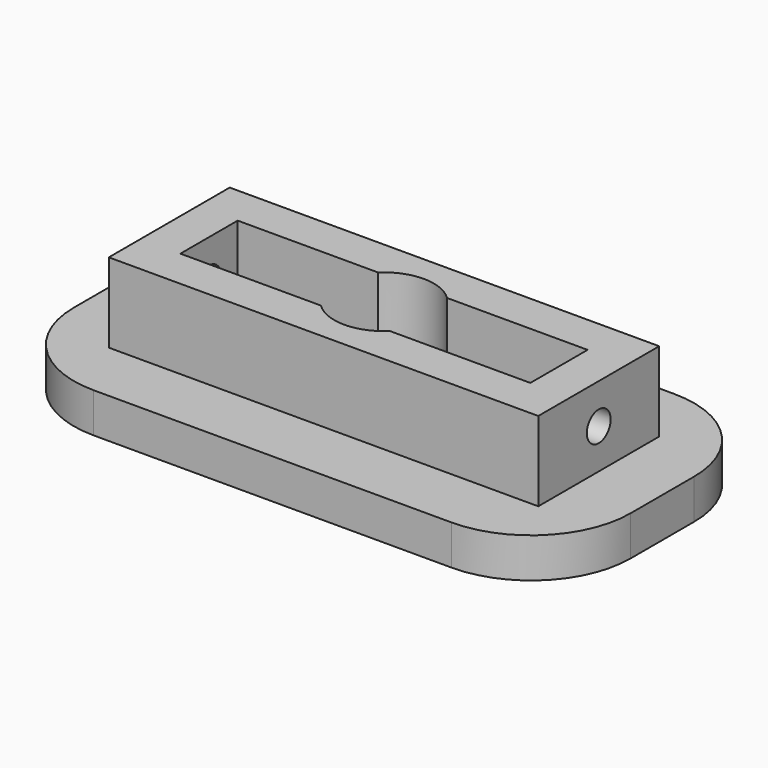
from build123d import *

# Parameters (mm, degrees)
F0_W          = 22
F0_H          = 8
F0_W_2        = 21.6
F0_H_2        = 7.6
F0_W_3        = 17.6
F0_H_3        = 3.6
F1_DEPTH      = 2
F2_DEPTH      = 4
F3_R          = 2.5
F4_DEPTH      = 10
F4_DEPTH_BACK = 10
F5_R          = 0.75
F6_DEPTH      = 24.801
F6_DEPTH_BACK = 3.201


with BuildPart() as f1:
    # F0 (on Top) → F1 (new body)
    with BuildSketch(Plane.XY):
        with BuildLine():
            Line((17.5520906094, 3.2524078637), (17.5520906094, 7.2524078637))
            ThreePointArc((17.5520906094, 7.2524078637), (16.0876245154, 10.7879417697), (12.5520906094, 12.2524078637))
            Line((12.5520906094, 12.2524078637), (-5.4479093906, 12.2524078637))
            ThreePointArc((-5.4479093906, 12.2524078637), (-8.9834432965, 10.7879417697), (-10.4479093906, 7.2524078637))
            Line((-10.4479093906, 7.2524078637), (-10.4479093906, 3.2524078637))
            ThreePointArc((-10.4479093906, 3.2524078637), (-8.9834432965, -0.2831260422), (-5.4479093906, -1.7475921363))
            Line((-5.4479093906, -1.7475921363), (12.5520906094, -1.7475921363))
            ThreePointArc((12.5520906094, -1.7475921363), (16.0876245154, -0.2831260422), (17.5520906094, 3.2524078637))
        make_face()
        with Locations((3.5520906094, 5.2524078637)):
            Rectangle(F0_W, F0_H, mode=Mode.SUBTRACT)
        with Locations((3.5520906094, 5.2524078637)):
            Rectangle(F0_W, F0_H)
        with Locations((3.5520906094, 5.2524078637)):
            Rectangle(F0_W_2, F0_H_2, mode=Mode.SUBTRACT)
        with Locations((3.5520906094, 5.2524078637)):
            Rectangle(F0_W_2, F0_H_2)
        with Locations((3.5520906094, 5.2524078637)):
            Rectangle(F0_W_3, F0_H_3, mode=Mode.SUBTRACT)
        with Locations((3.5520906094, 5.2524078637)):
            Rectangle(F0_W_3, F0_H_3)
    extrude(amount=-F1_DEPTH)

    # F0 (on Top) → F2 (join)
    with BuildSketch(Plane.XY):
        with Locations((3.5520906094, 5.2524078637)):
            Rectangle(F0_W_2, F0_H_2)
        with Locations((3.5520906094, 5.2524078637)):
            Rectangle(F0_W_3, F0_H_3, mode=Mode.SUBTRACT)
    extrude(amount=F2_DEPTH)

    # F3 (on face) → F4 (cut, two sides)
    with BuildSketch(Plane(origin=(0, 0, -2), x_dir=(1, 0, 0), z_dir=(0, 0, -1))) as f4_sk:
        with Locations((3.5520906094, -5.2524078637)):
            Circle(F3_R)
    extrude(amount=-F4_DEPTH, mode=Mode.SUBTRACT)
    extrude(f4_sk.sketch, amount=F4_DEPTH_BACK, mode=Mode.SUBTRACT)

    # F5 (on face) → F6 (cut, two sides)
    with BuildSketch(Plane(origin=(-7.2479093906, 0, 0), x_dir=(0, -1, 0), z_dir=(-1, 0, 0))) as f6_sk:
        with Locations((-5.2524078637, 2)):
            Circle(F5_R)
    extrude(amount=-F6_DEPTH, mode=Mode.SUBTRACT)
    extrude(f6_sk.sketch, amount=F6_DEPTH_BACK, mode=Mode.SUBTRACT)


solid = f1.part
